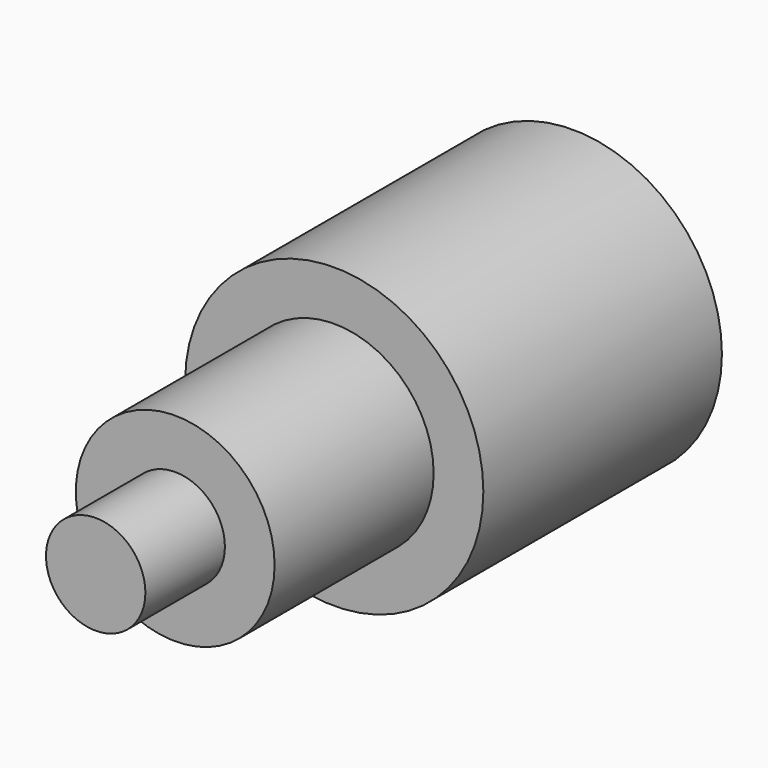
from build123d import *

# Parameters (mm, degrees)
F0_R     = 38.1
F0_R_2   = 25.4
F1_DEPTH = 76.2
F0_R_3   = 12.7
F2_DEPTH = 127
F3_DEPTH = 152.4


with BuildPart() as f1:
    # F0 (on Front) → F1 (new body)
    with BuildSketch(Plane.XZ):
        Circle(F0_R)
        Circle(F0_R_2, mode=Mode.SUBTRACT)
    extrude(amount=F1_DEPTH)

    # F0 (on Front) → F2 (join)
    with BuildSketch(Plane.XZ):
        Circle(F0_R_2)
        Circle(F0_R_3, mode=Mode.SUBTRACT)
    extrude(amount=F2_DEPTH)

    # F0 (on Front) → F3 (join)
    with BuildSketch(Plane.XZ):
        Circle(F0_R_3)
    extrude(amount=F3_DEPTH)


solid = f1.part
